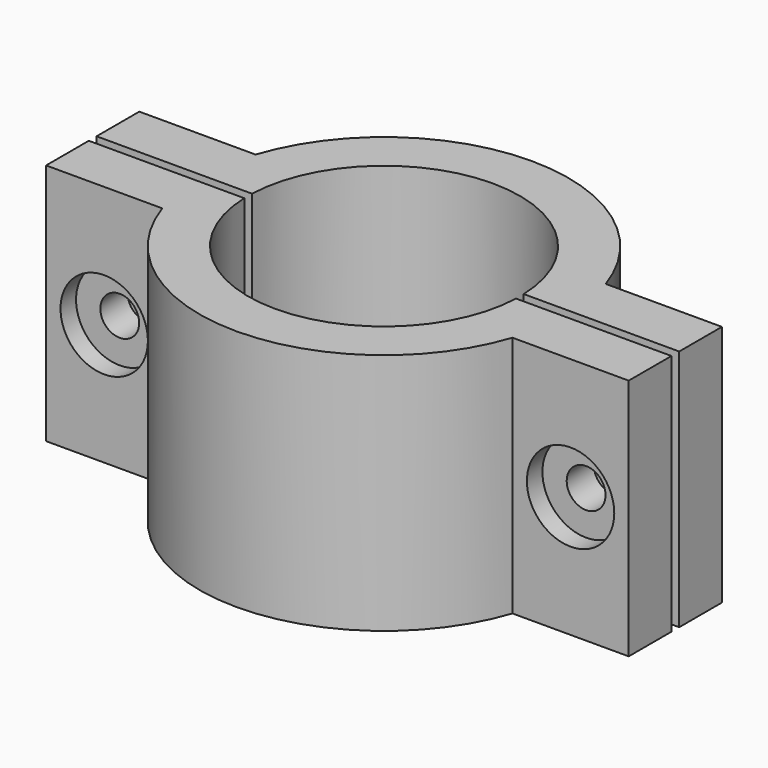
from build123d import *

# Parameters (mm, degrees)
F0_R     = 14
F1_DEPTH = 25
F0_R_2   = 8.5
F2_DEPTH = 4
F3_R     = 2
F4_DEPTH = 25
F5_DEPTH = 3
F6_R     = 4.5
F6_R_2   = 2
F7_DEPTH = 2
F9_DEPTH = 30


with BuildPart() as f1:
    # F0 (on Top) → F1 (new body)
    with BuildSketch(Plane.XY):
        with BuildLine():
            Line((-30, -6), (-18.027756, -6))
            ThreePointArc((-18.027756, -6), (0, -19), (18.027756, -6))
            Line((18.027756, -6), (30, -6))
            Line((30, -6), (30, 6))
            Line((30, 6), (18.027756, 6))
            ThreePointArc((18.027756, 6), (0, 19), (-18.027756, 6))
            Line((-18.027756, 6), (-30, 6))
            Line((-30, 6), (-30, -6))
        make_face()
        Circle(F0_R, mode=Mode.SUBTRACT)
    extrude(amount=F1_DEPTH)

    # F0 (on Top) → F2 (join)
    with BuildSketch(Plane.XY):
        Circle(F0_R)
        Circle(F0_R_2, mode=Mode.SUBTRACT)
    extrude(amount=F2_DEPTH)

    # F3 (on face) → F4 (cut)
    with BuildSketch(Plane(origin=(0, 6, 0), x_dir=(-1, 0, 0), z_dir=(0, 1, 0))):
        with Locations((-24.013878, 12.5)):
            Circle(F3_R)
        with Locations((24.013878, 12.5)):
            Circle(F3_R)
    extrude(amount=-F4_DEPTH, mode=Mode.SUBTRACT)

    # F3 (on face) → F5 (cut)
    with BuildSketch(Plane(origin=(0, 6, 0), x_dir=(-1, 0, 0), z_dir=(0, 1, 0))):
        Polygon((-27.47798, 10.5), (-24.013878, 8.5), (-20.549777, 10.5), (-20.549777, 14.5), (-24.013878, 16.5), (-27.47798, 14.5), align=None)
        with Locations((-24.013878, 12.5)):
            Circle(F3_R, mode=Mode.SUBTRACT)
        Polygon((20.549777, 10.5), (24.013878, 8.5), (27.47798, 10.5), (27.47798, 14.5), (24.013878, 16.5), (20.549777, 14.5), align=None)
        with Locations((24.013878, 12.5)):
            Circle(F3_R, mode=Mode.SUBTRACT)
    extrude(amount=-F5_DEPTH, mode=Mode.SUBTRACT)

    # F6 (on face) → F7 (cut)
    with BuildSketch(Plane.XZ.offset(6)):
        with Locations((-24.013878, 12.5)):
            Circle(F6_R)
        with Locations((-24.013878, 12.5)):
            Circle(F6_R_2, mode=Mode.SUBTRACT)
        with Locations((24.013878, 12.5)):
            Circle(F6_R)
    extrude(amount=-F7_DEPTH, mode=Mode.SUBTRACT)

    # F8 (on face) → F9 (cut)
    with BuildSketch(Plane(origin=(0, 0, 0), x_dir=(1, 0, 0), z_dir=(0, 0, -1))):
        with BuildLine():
            Line((-30, -0.5), (-8.5, -0.5))
            Line((-8.5, -0.5), (-8.485281, -0.5))
            ThreePointArc((-8.485281, -0.5), (-8.5, 0), (-8.485281, 0.5))
            Line((-8.485281, 0.5), (-30, 0.5))
            Line((-30, 0.5), (-30, -0.5))
        make_face()
        with BuildLine():
            ThreePointArc((8.5, 0), (8.49632, -0.250108), (8.485281, -0.5))
            Line((8.485281, -0.5), (30, -0.5))
            Line((30, -0.5), (30, 0.5))
            Line((30, 0.5), (8.5, 0.5))
            Line((8.5, 0.5), (8.485281, 0.5))
            ThreePointArc((8.485281, 0.5), (8.49632, 0.250108), (8.5, 0))
        make_face()
        with BuildLine():
            Line((-30, -0.5), (-8.5, -0.5))
            Line((-8.5, -0.5), (-8.485281, -0.5))
            ThreePointArc((-8.485281, -0.5), (-8.5, 0), (-8.485281, 0.5))
            Line((-8.485281, 0.5), (-30, 0.5))
            Line((-30, 0.5), (-30, -0.5))
        make_face()
    extrude(amount=-F9_DEPTH, mode=Mode.SUBTRACT)


solid = f1.part
